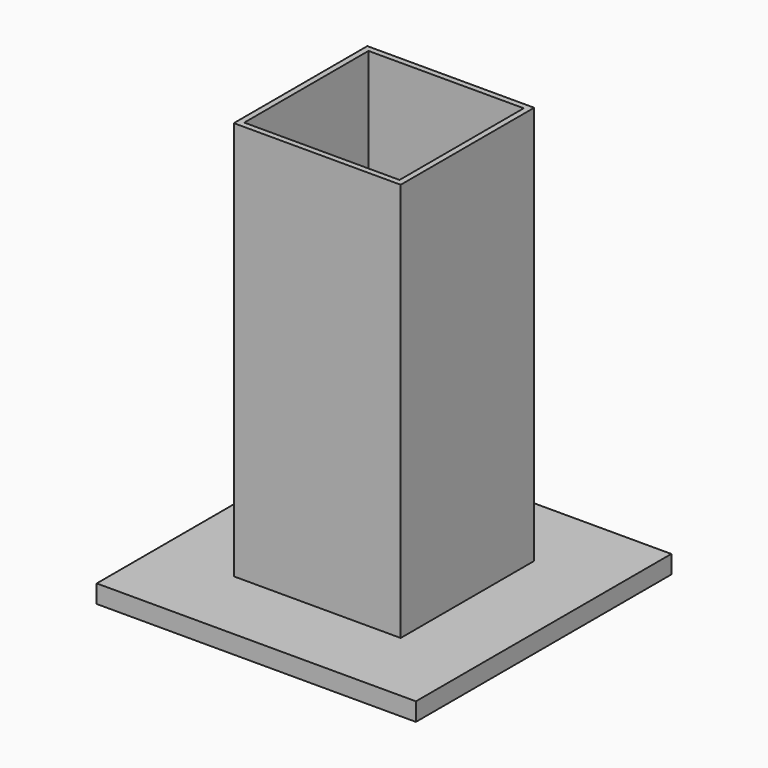
from build123d import *

# Parameters (mm, degrees)
SKETCH_W     = 88
SKETCH_H     = 88
PAD_DEPTH    = 5
SKETCH001_W  = 46
SKETCH001_H  = 46
PAD001_DEPTH = 110
SKETCH002_W  = 42.8
SKETCH002_H  = 42.8
POCKET_DEPTH = 115.001


with BuildPart() as part:
    # Sketch → Pad (new body)
    with BuildSketch(Plane.XY):
        Rectangle(SKETCH_W, SKETCH_H)
    extrude(amount=PAD_DEPTH)

    # Sketch001 (on Face6 of Pad) → Pad001 (join)
    with BuildSketch(Plane.XY.offset(5)):
        Rectangle(SKETCH001_W, SKETCH001_H)
    extrude(amount=PAD001_DEPTH)

    # Sketch002 (on Face11 of Pad001) → Pocket (cut, through all)
    with BuildSketch(Plane.XY.offset(115)):
        Rectangle(SKETCH002_W, SKETCH002_H)
    extrude(amount=-POCKET_DEPTH, mode=Mode.SUBTRACT)


solid = part.part
